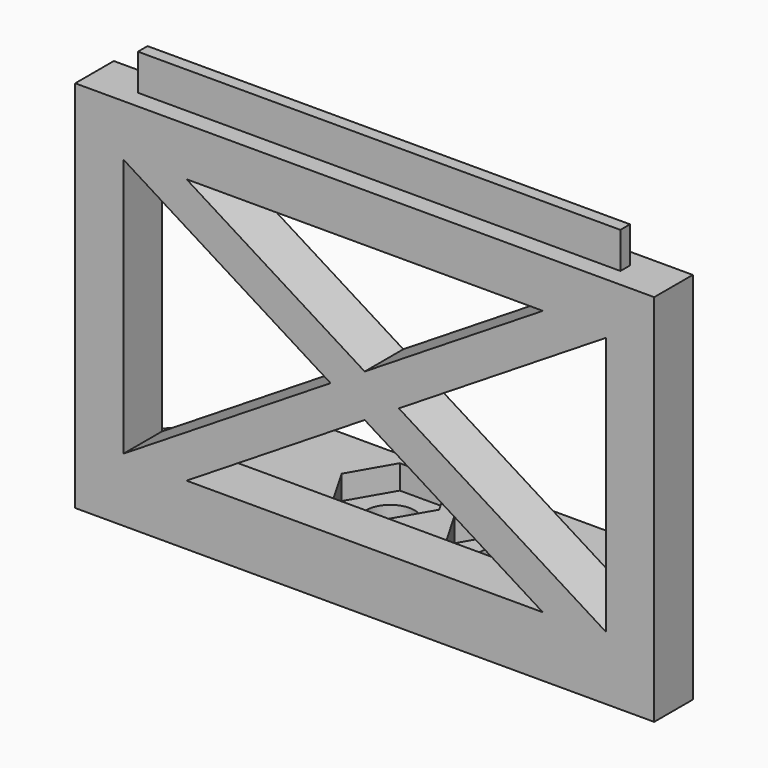
from build123d import *

# Parameters (mm, degrees)
F0_W      = 48
F0_H      = 30
F1_DEPTH  = 4
F1_FACE_W = 48
F1_FACE_H = 4
F2_DEPTH  = 1
F3_W      = 40
F3_H      = 1
F4_DEPTH  = 3
F5_W      = 48
F5_H      = 4
F6_DEPTH  = 9
F7_R      = 2
F8_DEPTH  = 4
F9_DEPTH  = 2
F11_DEPTH = 4


with BuildPart() as f1:
    # F0 (on Front) → F1 (new body)
    with BuildSketch(Plane.XZ):
        with Locations((-1.069695, 15)):
            Rectangle(F0_W, F0_H)
        Polygon((-21.069695, 4.268871), (-21.069695, 25.731129), (-3.899889, 15), align=None, mode=Mode.SUBTRACT)
        Polygon((13.700111, 4), (-15.839501, 4), (-1.069695, 13.231129), align=None, mode=Mode.SUBTRACT)
        Polygon((18.930305, 25.731129), (18.930305, 4.268871), (1.760499, 15), align=None, mode=Mode.SUBTRACT)
        Polygon((-1.069695, 16.768871), (-15.839501, 26), (13.700111, 26), align=None, mode=Mode.SUBTRACT)
    extrude(amount=F1_DEPTH)

    # F1_face (on face) → F2 (join)
    with BuildSketch(Plane(origin=(-1.069695, -2, 0), x_dir=(1, 0, 0), z_dir=(0, 0, -1))):
        Rectangle(F1_FACE_W, F1_FACE_H)
    extrude(amount=F2_DEPTH)

    # F3 (on face) → F4 (join)
    with BuildSketch(Plane.XY.offset(30)):
        with Locations((-1.069695, -2)):
            Rectangle(F3_W, F3_H)
    extrude(amount=F4_DEPTH)

    # F5 (on face) → F6 (join)
    with BuildSketch(Plane(origin=(0, 0, 0), x_dir=(-1, 0, 0), z_dir=(0, 1, 0))):
        with Locations((1.069695, 1)):
            Rectangle(F5_W, F5_H)
    extrude(amount=F6_DEPTH)

    # F7 (on face) → F8 (cut)
    with BuildSketch(Plane.XY.offset(3)):
        with Locations((-5.769695, 4.536883)):
            Circle(F7_R)
        with Locations((3.630305, 4.483014)):
            Circle(F7_R)
    extrude(amount=-F8_DEPTH, mode=Mode.SUBTRACT)

    # F7 (on face) → F9 (cut)
    with BuildSketch(Plane.XY.offset(3)):
        Polygon((-3.748969, 1.036883), (-1.728243, 4.536883), (-3.748969, 8.036883), (-7.790421, 8.036883), (-9.811147, 4.536883), (-7.790421, 1.036883), align=None)
        with Locations((-5.769695, 4.536883)):
            Circle(F7_R, mode=Mode.SUBTRACT)
        Polygon((5.651031, 0.983014), (7.671757, 4.483014), (5.651031, 7.983014), (1.609579, 7.983014), (-0.411147, 4.483014), (1.609579, 0.983014), align=None)
        with Locations((3.630305, 4.483014)):
            Circle(F7_R, mode=Mode.SUBTRACT)
    extrude(amount=-F9_DEPTH, mode=Mode.SUBTRACT)

    # F10 (on face) → F11 (cut)
    with BuildSketch(Plane.XY.offset(3)):
        Polygon((-25.069695, 0), (-16.069695, 9), (-25.069695, 9), align=None)
        Polygon((22.930305, 9), (13.930305, 9), (22.930305, 0), align=None)
    extrude(amount=-F11_DEPTH, mode=Mode.SUBTRACT)


solid = f1.part
